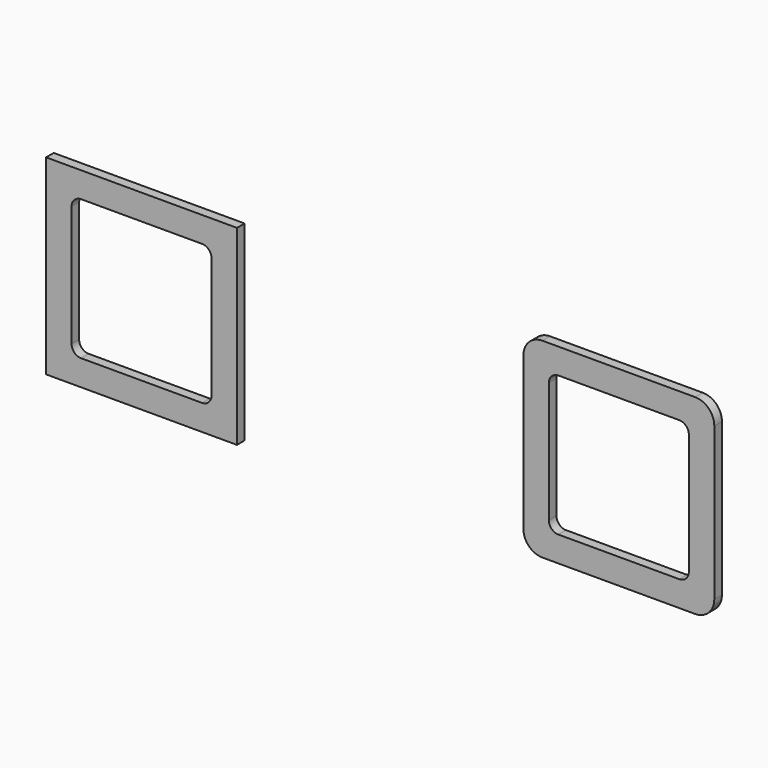
from build123d import *

# Parameters (mm, degrees)
F1_DEPTH = 3


with BuildPart() as f1:
    # F0 (on Front) → F1 (new body)
    with BuildSketch(Plane.XZ):
        with BuildLine():
            Line((98.986508, 29.084981), (50.986508, 29.084981))
            ThreePointArc((50.986508, 29.084981), (46.743867, 27.327622), (44.986508, 23.084981))
            Line((44.986508, 23.084981), (44.986508, -24.915019))
            ThreePointArc((44.986508, -24.915019), (46.743867, -29.157659), (50.986508, -30.915019))
            Line((50.986508, -30.915019), (98.986508, -30.915019))
            ThreePointArc((98.986508, -30.915019), (103.229148, -29.157659), (104.986508, -24.915019))
            Line((104.986508, -24.915019), (104.986508, 23.084981))
            ThreePointArc((104.986508, 23.084981), (103.229148, 27.327622), (98.986508, 29.084981))
        make_face()
        with BuildLine():
            ThreePointArc((52.986508, 18.084981), (53.865187, 20.206302), (55.986508, 21.084981))
            Line((55.986508, 21.084981), (93.986508, 21.084981))
            ThreePointArc((93.986508, 21.084981), (96.107828, 20.206302), (96.986508, 18.084981))
            Line((96.986508, 18.084981), (96.986508, -19.915019))
            ThreePointArc((96.986508, -19.915019), (96.107828, -22.036339), (93.986508, -22.915019))
            Line((93.986508, -22.915019), (55.986508, -22.915019))
            ThreePointArc((55.986508, -22.915019), (53.865187, -22.036339), (52.986508, -19.915019))
            Line((52.986508, -19.915019), (52.986508, 18.084981))
        make_face(mode=Mode.SUBTRACT)
        with BuildLine():
            ThreePointArc((-99.013492, 29.084981), (-103.256133, 27.327622), (-105.013492, 23.084981))
            Line((-105.013492, 23.084981), (-105.013492, -24.915019))
            ThreePointArc((-105.013492, -24.915019), (-103.256133, -29.157659), (-99.013492, -30.915019))
            Line((-99.013492, -30.915019), (-51.013492, -30.915019))
            ThreePointArc((-51.013492, -30.915019), (-46.770852, -29.157659), (-45.013492, -24.915019))
            Line((-45.013492, -24.915019), (-45.013492, 23.084981))
            ThreePointArc((-45.013492, 23.084981), (-46.770852, 27.327622), (-51.013492, 29.084981))
            Line((-51.013492, 29.084981), (-99.013492, 29.084981))
        make_face()
        with BuildLine():
            Line((-94.013492, 21.084981), (-56.013492, 21.084981))
            ThreePointArc((-56.013492, 21.084981), (-53.892172, 20.206302), (-53.013492, 18.084981))
            Line((-53.013492, 18.084981), (-53.013492, -19.915019))
            ThreePointArc((-53.013492, -19.915019), (-53.892172, -22.036339), (-56.013492, -22.915019))
            Line((-56.013492, -22.915019), (-94.013492, -22.915019))
            ThreePointArc((-94.013492, -22.915019), (-96.134813, -22.036339), (-97.013492, -19.915019))
            Line((-97.013492, -19.915019), (-97.013492, 18.084981))
            ThreePointArc((-97.013492, 18.084981), (-96.134813, 20.206302), (-94.013492, 21.084981))
        make_face(mode=Mode.SUBTRACT)
        with BuildLine():
            Line((-105.013492, 29.084981), (-105.013492, 23.084981))
            ThreePointArc((-105.013492, 23.084981), (-103.256133, 27.327622), (-99.013492, 29.084981))
            Line((-99.013492, 29.084981), (-105.013492, 29.084981))
        make_face()
        with BuildLine():
            ThreePointArc((-99.013492, -30.915019), (-103.256133, -29.157659), (-105.013492, -24.915019))
            Line((-105.013492, -24.915019), (-105.013492, -30.9678))
            Line((-105.013492, -30.9678), (-45.013492, -30.9678))
            Line((-45.013492, -30.9678), (-45.013492, -24.915019))
            ThreePointArc((-45.013492, -24.915019), (-46.770852, -29.157659), (-51.013492, -30.915019))
            Line((-51.013492, -30.915019), (-99.013492, -30.915019))
        make_face()
        with BuildLine():
            Line((-45.013492, 29.084981), (-51.013492, 29.084981))
            ThreePointArc((-51.013492, 29.084981), (-46.770852, 27.327622), (-45.013492, 23.084981))
            Line((-45.013492, 23.084981), (-45.013492, 29.084981))
        make_face()
    extrude(amount=F1_DEPTH)


solid = f1.part
